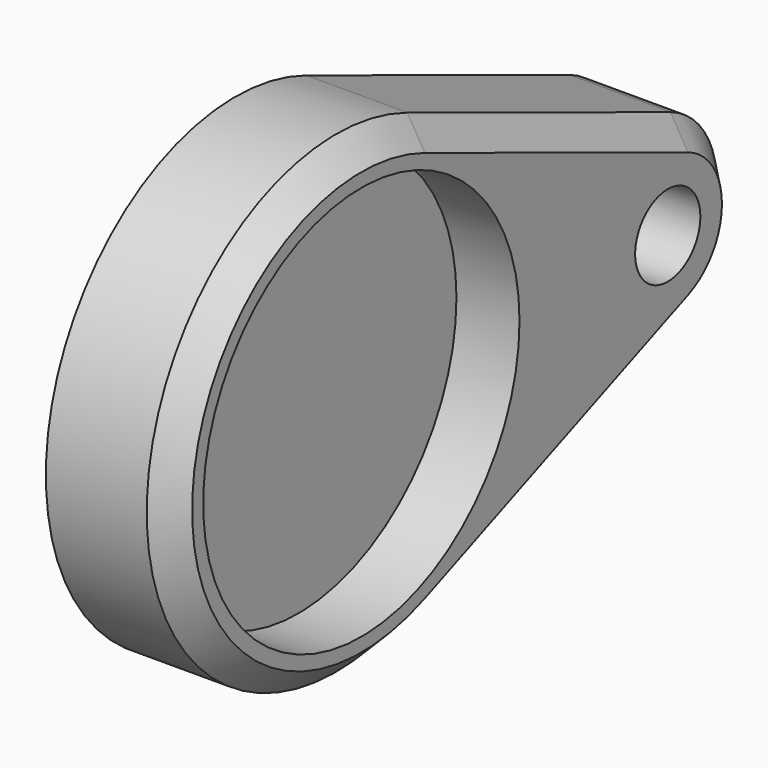
from build123d import *

# Parameters (mm, degrees)
F1_DEPTH = 25.4
F2_R     = 39.820498
F3_DEPTH = 12.7
F4_R     = 8.210642
F5_DEPTH = 12.7
F6_SIZE  = 5.08


with BuildPart() as f1:
    # F0 (on Right) → F1 (new body)
    with BuildSketch(Plane.YZ):
        with BuildLine():
            ThreePointArc((17.909064, -44.198928), (39.549668, -26.647768), (47.68941, 0))
            ThreePointArc((47.68941, 0), (39.549668, 26.647768), (17.909064, 44.198928))
            ThreePointArc((17.909064, 44.198928), (-47.68941, 0), (17.909064, -44.198928))
        make_face()
        with BuildLine():
            ThreePointArc((17.909064, 44.198928), (39.549668, 26.647768), (47.68941, 0))
            ThreePointArc((47.68941, 0), (39.549668, -26.647768), (17.909064, -44.198928))
            Line((17.909064, -44.198928), (84.17689, -17.347717))
            ThreePointArc((84.17689, -17.347717), (58.430027, 0), (84.17689, 17.347717))
            Line((84.17689, 17.347717), (17.909064, 44.198928))
        make_face()
        with BuildLine():
            ThreePointArc((95.865432, 0), (92.67065, 10.459031), (84.17689, 17.347717))
            ThreePointArc((84.17689, 17.347717), (58.430027, 0), (84.17689, -17.347717))
            ThreePointArc((84.17689, -17.347717), (92.67065, -10.459031), (95.865432, 0))
        make_face()
    extrude(amount=F1_DEPTH)

    # F2 (on face) → F3 (cut)
    with BuildSketch(Plane.YZ.offset(25.4)):
        Circle(F2_R)
    extrude(amount=-F3_DEPTH, mode=Mode.SUBTRACT)

    # F4 (on face) → F5 (cut)
    with BuildSketch(Plane.YZ.offset(25.4)):
        with Locations((77.147729, 0)):
            Circle(F4_R)
    extrude(amount=-F5_DEPTH, mode=Mode.SUBTRACT)

    # F6
    f6_edges = [f1.edges().sort_by_distance(p)[0] for p in [
        (25.4, 51.042977, 30.773322),
    ]]
    chamfer(f6_edges, length=F6_SIZE)


solid = f1.part
